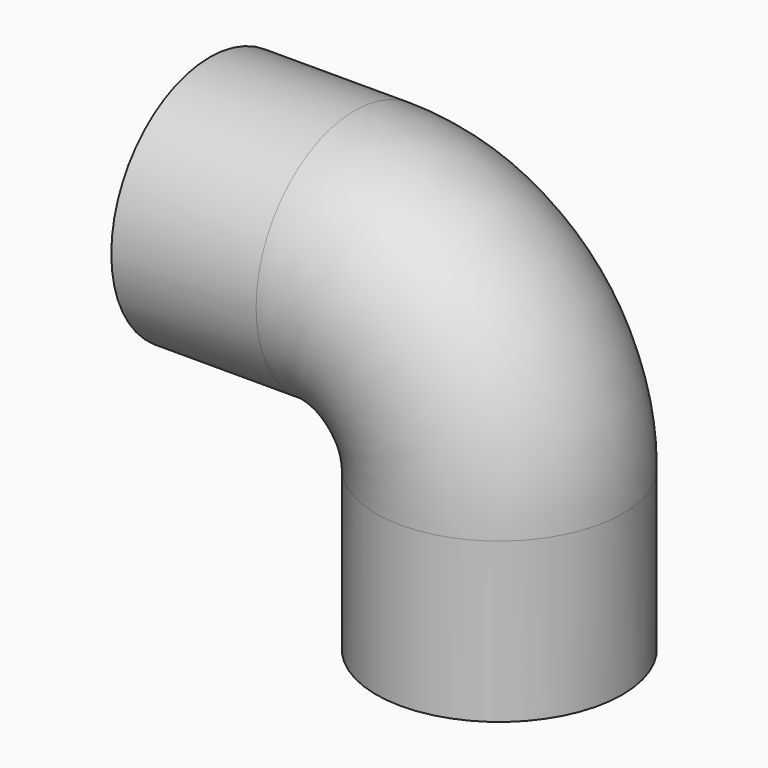
from build123d import *

# Parameters (mm, degrees)
F1_R = 13.49375
F3_R = 11.1125


with BuildPart() as f2:
    # F2: sweep along a path in F0
    with BuildLine(Plane.XZ) as f2_path:
        Line((0, 0), (0, 17.4625))
        ThreePointArc((0, 17.4625), (-4.6496798487, 28.6878201513), (-15.875, 33.3375))
        Line((-15.875, 33.3375), (-31.75, 33.3375))
    # F1 (on Top) → F2 (sweep)
    with BuildSketch(Plane.XY):
        Circle(F1_R)
    sweep(path=f2_path.line)

    # F4: sweep along a path in F0
    with BuildLine(Plane.XZ) as f4_path:
        Line((0, 0), (0, 17.4625))
        ThreePointArc((0, 17.4625), (-4.6496798487, 28.6878201513), (-15.875, 33.3375))
        Line((-15.875, 33.3375), (-31.75, 33.3375))
    # F3 (on face) → F4 (sweep, cut)
    with BuildSketch(Plane(origin=(0, 0, 0), x_dir=(1, 0, 0), z_dir=(0, 0, -1))):
        Circle(F3_R)
    sweep(path=f4_path.line, mode=Mode.SUBTRACT)


solid = f2.part
